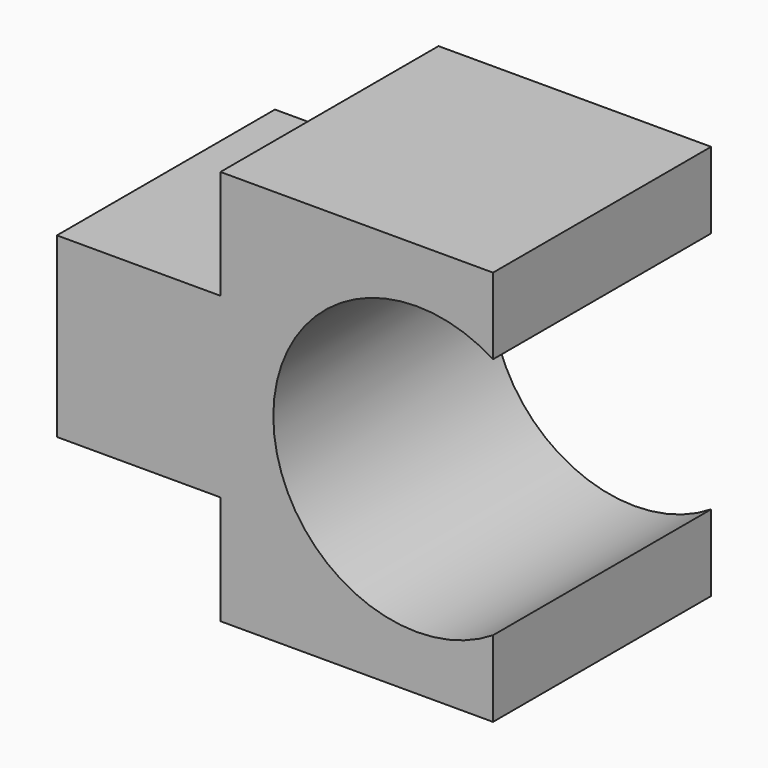
from build123d import *

# Parameters (mm, degrees)
F1_DEPTH = 25


with BuildPart() as f1:
    # F0 (on Front) → F1 (new body)
    with BuildSketch(Plane.XZ):
        with BuildLine():
            Line((0, 36.279071), (-25, 36.279071))
            Line((-25, 36.279071), (-25, 26.279071))
            Line((-25, 26.279071), (-40, 26.279071))
            Line((-40, 26.279071), (-40, 10))
            Line((-40, 10), (-25, 10))
            Line((-25, 10), (-25, 0))
            Line((-25, 0), (0, 0))
            Line((0, 0), (0, 7))
            ThreePointArc((0, 7), (-20.15121, 18.139535), (0, 29.279071))
            Line((0, 29.279071), (0, 36.279071))
        make_face()
    extrude(amount=F1_DEPTH)


solid = f1.part
